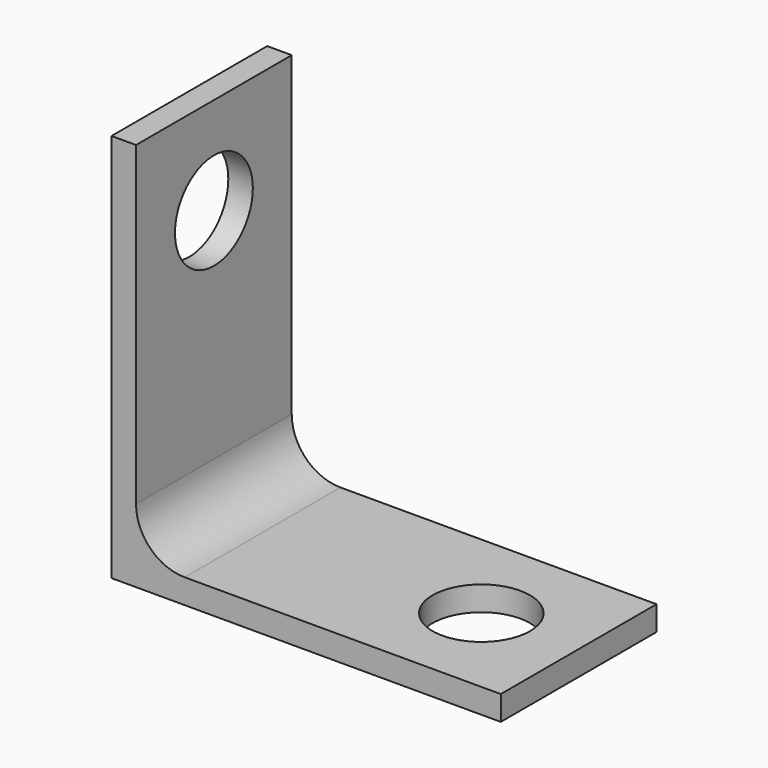
from build123d import *

# Parameters (mm, degrees)
F0_W     = 12.7
F0_H     = 25.4
F0_R     = 3.175
F1_DEPTH = 1.6002
F2_W     = 25.4
F2_H     = 12.7
F2_R     = 3.175
F3_DEPTH = 1.6002
F4_R     = 3.175


with BuildPart() as f1:
    # F0 (on Right) → F1 (new body)
    with BuildSketch(Plane.YZ):
        with Locations((-6.35, 12.7)):
            Rectangle(F0_W, F0_H)
        with Locations((-6.35, 19.05)):
            Circle(F0_R, mode=Mode.SUBTRACT)
    extrude(amount=F1_DEPTH)

    # F2 (on Top) → F3 (join)
    with BuildSketch(Plane.XY):
        with Locations((12.7, -6.35)):
            Rectangle(F2_W, F2_H)
        with Locations((19.05, -6.35)):
            Circle(F2_R, mode=Mode.SUBTRACT)
    extrude(amount=F3_DEPTH)

    # F4
    f4_edges = [f1.edges().sort_by_distance(p)[0] for p in [
        (1.6002, -6.35, 1.6002),
    ]]
    fillet(f4_edges, radius=F4_R)


solid = f1.part
